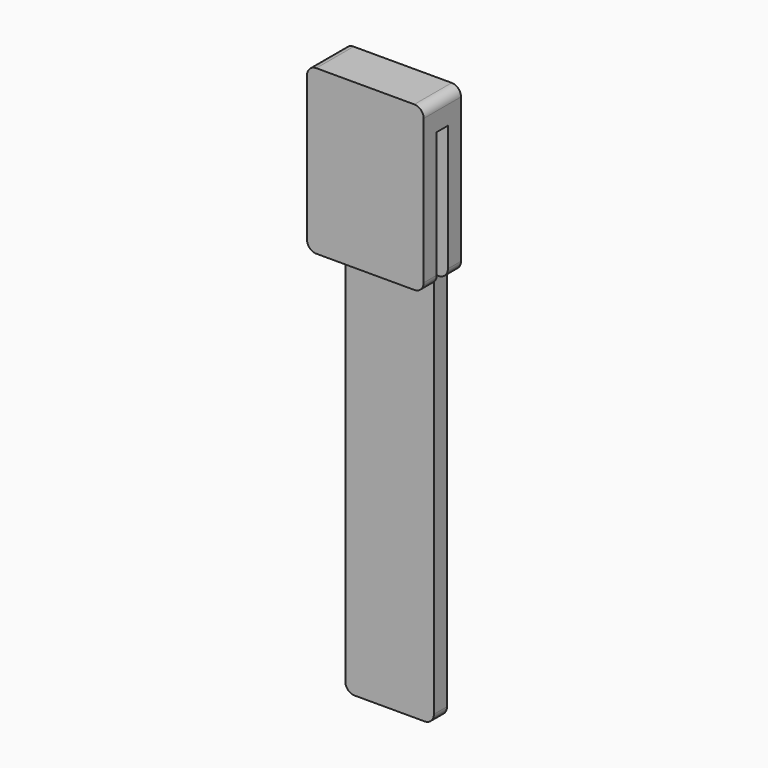
from build123d import *

# Parameters (mm, degrees)
F0_W      = 25
F0_H      = 120
F1_DEPTH  = 10
F3_W      = 3
F3_H      = 114
F4_DEPTH  = 25.001
F5_W      = 9.2
F5_H      = 100
F6_DEPTH  = 7.2
F7_R      = 2.6
F8_DEPTH  = 105.001
F9_W      = 4
F9_H      = 100
F10_DEPTH = 3
F11_W     = 7.2
F11_H     = 60
F12_DEPTH = 17.101
F13_W     = 25
F13_H     = 85
F14_DEPTH = 3.5
F15_W     = 3
F15_H     = 85
F16_DEPTH = 3.5
F17_R     = 2


with BuildPart() as f1:
    # F0 (on Front) → F1 (new body)
    with BuildSketch(Plane.XZ):
        Rectangle(F0_W, F0_H)
    extrude(amount=F1_DEPTH)

    # F3 (on face) → F4 (cut, through all)
    with BuildSketch(Plane.YZ.offset(12.5)):
        with Locations((-5, -3)):
            Rectangle(F3_W, F3_H)
    extrude(amount=-F4_DEPTH, mode=Mode.SUBTRACT)

    # F5 (on face) → F6 (join)
    with BuildSketch(Plane(origin=(0, 0, 0), x_dir=(-1, 0, 0), z_dir=(0, 1, 0))):
        with Locations((0, -5)):
            Rectangle(F5_W, F5_H)
    extrude(amount=F6_DEPTH)

    # F7 (on face) → F8 (cut, through all)
    with BuildSketch(Plane.XY.offset(45)):
        with Locations((0, 2.785714576)):
            Circle(F7_R)
    extrude(amount=-F8_DEPTH, mode=Mode.SUBTRACT)

    # F9 (on face) → F10 (cut)
    with BuildSketch(Plane(origin=(0, 7.2, 0), x_dir=(-1, 0, 0), z_dir=(0, 1, 0))):
        with Locations((0, -5)):
            Rectangle(F9_W, F9_H)
    extrude(amount=-F10_DEPTH, mode=Mode.SUBTRACT)

    # F11 (on face) → F12 (cut, through all)
    with BuildSketch(Plane.YZ.offset(4.6)):
        with Locations((3.6, -5)):
            Rectangle(F11_W, F11_H)
    extrude(amount=-F12_DEPTH, mode=Mode.SUBTRACT)

    # F13 (on face) → F14 (cut, through all)
    with BuildSketch(Plane.XZ.offset(10)):
        with Locations((0, -17.5)):
            Rectangle(F13_W, F13_H)
    extrude(amount=-F14_DEPTH, mode=Mode.SUBTRACT)

    # F15 (on face) → F16 (cut, through all)
    with BuildSketch(Plane(origin=(0, 0, 0), x_dir=(-1, 0, 0), z_dir=(0, 1, 0))):
        with Locations((-11, -17.5)):
            Rectangle(F15_W, F15_H)
        with Locations((11, -17.5)):
            Rectangle(F15_W, F15_H)
    extrude(amount=-F16_DEPTH, mode=Mode.SUBTRACT)

    # F17
    f17_edges = [f1.edges().sort_by_distance(p)[0] for p in [
        (-12.5, -8.25, 25),
        (-12.5, -1.75, 25),
        (12.5, -1.75, 25),
        (12.5, -8.25, 25),
        (-12.5, -5, 60),
        (12.5, -5, 60),
        (-9.5, -1.75, -60),
        (9.5, -1.75, -60),
        (-4.6, 7.2, 35),
        (4.6, 7.2, 35),
        (-4.6, 0, 35),
        (4.6, 0, 35),
        (-4.6, 7.2, -45),
        (4.6, 7.2, -45),
        (-4.6, 0, -45),
        (4.6, 0, -45),
    ]]
    fillet(f17_edges, radius=F17_R)


solid = f1.part
